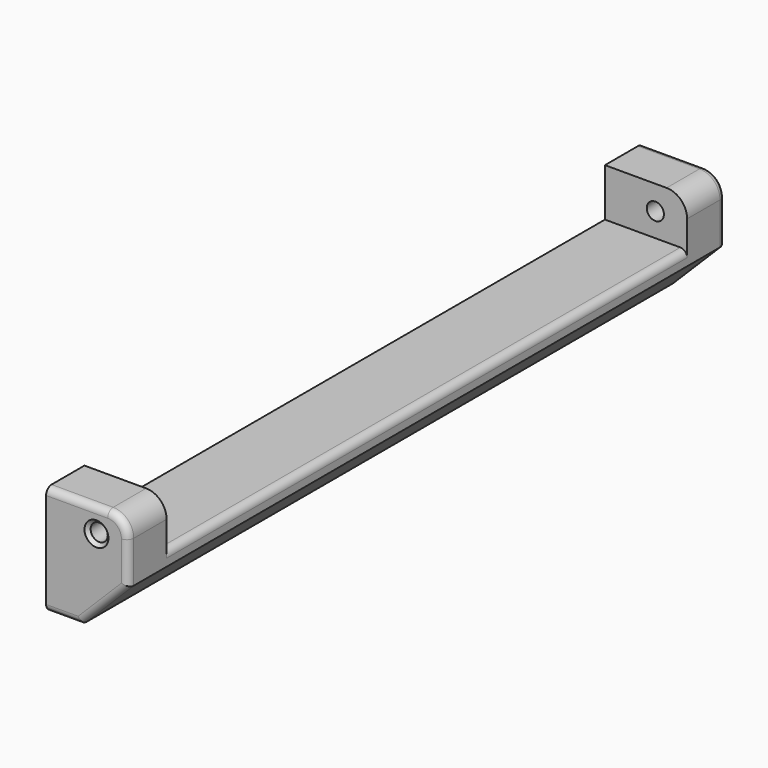
from build123d import *

# Parameters (mm, degrees)
PAD012_DEPTH            = 12
CHAMFER011_SIZE         = 6.9
FILLET025_R             = 1
FILLET024_R             = 3
FILLET026_R             = 1
SKETCH050_R             = 1.25
POCKET019_DEPTH         = 109.001
CHAMFER012_SIZE         = 0.5
FILLET030_R             = 1
BODY011_PLACEMENT_ANGLE = 180


with BuildPart() as part:
    # Sketch049 → Pad012 (new body)
    with BuildSketch(Plane.YZ.offset(37)):
        Polygon((-48, 6), (-41, 6), (-41, 13), (54, 13), (54, 6), (61, 6), (61, 22), (-48, 22), align=None)
    extrude(amount=PAD012_DEPTH)

    # Chamfer011
    chamfer011_edges = [part.edges().sort_by_distance(p)[0] for p in [
        (49, 6.5, 22),
    ]]
    chamfer(chamfer011_edges, length=CHAMFER011_SIZE)

    # Fillet025
    fillet025_edges = [part.edges().sort_by_distance(p)[0] for p in [
        (49, 6.5, 13),
    ]]
    fillet(fillet025_edges, radius=FILLET025_R)

    # Fillet024
    fillet024_edges = [part.edges().sort_by_distance(p)[0] for p in [
        (49, 57.5, 6),
        (49, -44.5, 6),
    ]]
    fillet(fillet024_edges, radius=FILLET024_R)

    # Fillet026
    fillet026_edges = [part.edges().sort_by_distance(p)[0] for p in [
        (41.5, 61, 6),
        (48.12132, 61, 6.87868),
        (49, 61, 12.05),
        (45.55, 61, 18.55),
        (39.55, 61, 22),
    ]]
    fillet(fillet026_edges, radius=FILLET026_R)

    # Sketch050 (on Face12 of Fillet026) → Pocket019 (cut, through all)
    with BuildSketch(Plane.ZX.offset(61)):
        with Locations((9.54001, 44.356239)):
            Circle(SKETCH050_R)
    extrude(amount=-POCKET019_DEPTH, mode=Mode.SUBTRACT)

    # Chamfer012
    chamfer012_edges = [part.edges().sort_by_distance(p)[0] for p in [
        (44.356239, 61, 8.29001),
        (44.356239, -48, 8.29001),
    ]]
    chamfer(chamfer012_edges, length=CHAMFER012_SIZE)

    # Fillet030
    fillet030_edges = [part.edges().sort_by_distance(p)[0] for p in [
        (45.55, -48, 18.55),
        (39.55, -48, 22),
        (49, -48, 12.05),
        (48.12132, -48, 6.87868),
        (41.5, -48, 6),
    ]]
    fillet(fillet030_edges, radius=FILLET030_R)


with BuildPart() as part_1:
    # Body011 placement: moved
    add(part.part.moved(Location((7.01, 12.97, 9.54))).rotate(Axis((7.01, 12.97, 9.54), (1, 0, 0)), BODY011_PLACEMENT_ANGLE))


solid = part_1.part
